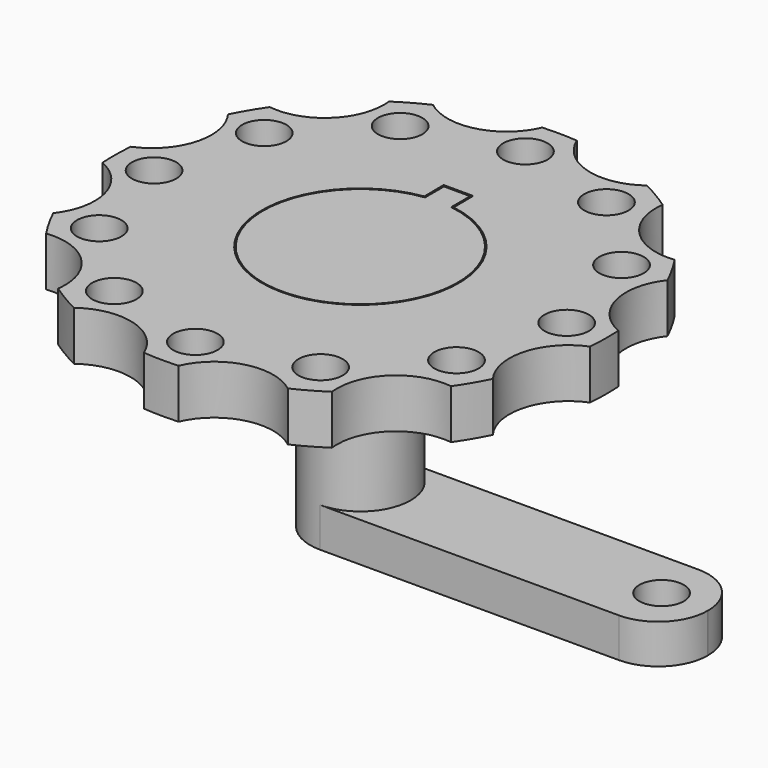
from build123d import *

# Parameters (mm, degrees)
F1_DEPTH      = 5
F1_DEPTH_BACK = 5
F2_DEPTH      = 70
F3_R          = 2.25
F4_DEPTH      = 5.001
F5_DEPTH      = 25
F6_R          = 5.1
F7_DEPTH      = 8
F8_DEPTH      = 25
F10_DEPTH     = 4
F11_R         = 2.25
F12_DEPTH     = 5
F13_R         = 5
F14_R         = 5


with BuildPart() as f1:
    # F0 (on Top) → F1 (new body, two sides)
    with BuildSketch(Plane.XY) as f1_sk:
        with BuildLine():
            ThreePointArc((24.9180826663, -2.0221662229), (24.9795122716, -1.0119123829), (25, 0))
            ThreePointArc((25, 0), (24.9884919428, 0.7584658374), (24.9539783659, 1.5162333974))
            ThreePointArc((24.9539783659, 1.5162333974), (21.5175783777, 5.5322921108), (22.5907757141, 10.7077940135))
            ThreePointArc((22.5907757141, 10.7077940135), (21.7763222672, 12.2797307998), (20.8526624916, 13.7900858231))
            ThreePointArc((20.8526624916, 13.7900858231), (15.8686234476, 15.5498946979), (14.2102886529, 20.5686094912))
            ThreePointArc((14.2102886529, 20.5686094912), (12.7189828845, 21.5227199579), (11.1638925427, 22.368895889))
            ThreePointArc((11.1638925427, 22.368895889), (5.9676836798, 21.4009155584), (2.0221662229, 24.9180826663))
            ThreePointArc((2.0221662229, 24.9180826663), (0.2536023093, 24.9987136843), (-1.5162333974, 24.9539783659))
            ThreePointArc((-1.5162333974, 24.9539783659), (-5.5322921108, 21.5175783777), (-10.7077940135, 22.5907757141))
            ThreePointArc((-10.7077940135, 22.5907757141), (-12.2797307998, 21.7763222672), (-13.7900858231, 20.8526624916))
            ThreePointArc((-13.7900858231, 20.8526624916), (-13.7594896566, 20.5039684404), (-13.749279351, 20.1540835788))
            ThreePointArc((-13.749279351, 20.1540835788), (-15.8069438022, 15.6310325708), (-20.5686094912, 14.2102886529))
            ThreePointArc((-20.5686094912, 14.2102886529), (-21.5227199579, 12.7189828845), (-22.368895889, 11.1638925427))
            ThreePointArc((-22.368895889, 11.1638925427), (-21.4852837197, 9.4675431669), (-21.1804194138, 7.5793086937))
            ThreePointArc((-21.1804194138, 7.5793086937), (-22.2017639485, 4.2307284337), (-24.9180826663, 2.0221662229))
            ThreePointArc((-24.9180826663, 2.0221662229), (-24.9987136843, 0.2536023093), (-24.9539783659, -1.5162333974))
            ThreePointArc((-24.9539783659, -1.5162333974), (-22.3162204368, -3.7284318092), (-21.3285880447, -7.026335835))
            ThreePointArc((-21.3285880447, -7.026335835), (-21.6528998052, -8.9722451361), (-22.5907757141, -10.7077940135))
            ThreePointArc((-22.5907757141, -10.7077940135), (-21.7763222672, -12.2797307998), (-20.8526624916, -13.7900858231))
            ThreePointArc((-20.8526624916, -13.7900858231), (-16.1660686263, -15.2664524819), (-14.1540835788, -19.749279351))
            ThreePointArc((-14.1540835788, -19.749279351), (-14.1681513391, -20.1599071901), (-14.2102886529, -20.5686094912))
            ThreePointArc((-14.2102886529, -20.5686094912), (-12.7189828845, -21.5227199579), (-11.1638925427, -22.368895889))
            ThreePointArc((-11.1638925427, -22.368895889), (-5.9676836798, -21.4009155584), (-2.0221662229, -24.9180826663))
            ThreePointArc((-2.0221662229, -24.9180826663), (-0.2536023093, -24.9987136843), (1.5162333974, -24.9539783659))
            ThreePointArc((1.5162333974, -24.9539783659), (5.5322921108, -21.5175783777), (10.7077940135, -22.5907757141))
            ThreePointArc((10.7077940135, -22.5907757141), (12.2797307998, -21.7763222672), (13.7900858231, -20.8526624916))
            ThreePointArc((13.7900858231, -20.8526624916), (15.5498946979, -15.8686234476), (20.5686094912, -14.2102886529))
            ThreePointArc((20.5686094912, -14.2102886529), (21.5227199579, -12.7189828845), (22.368895889, -11.1638925427))
            ThreePointArc((22.368895889, -11.1638925427), (21.4009155584, -5.9676836798), (24.9180826663, -2.0221662229))
        make_face()
        with BuildLine():
            ThreePointArc((1.5680404719, 9.8762973365), (-0.0687043009, -9.9997639832), (-1.4321868223, 9.8969106749))
            Line((-1.4321868223, 9.8969106749), (-1.4595227249, 12.3761442437))
            Line((-1.4595227249, 12.3761442437), (1.5404772751, 12.3761453859))
            Line((1.5404772751, 12.3761453859), (1.5680404719, 9.8762973365))
        make_face(mode=Mode.SUBTRACT)
    extrude(amount=F1_DEPTH)
    extrude(f1_sk.sketch, amount=-F1_DEPTH_BACK)

    # F0 (on Top) → F2 (cut)
    with BuildSketch(Plane.XY):
        with BuildLine():
            ThreePointArc((24.9180826663, -2.0221662229), (24.9795122716, -1.0119123829), (25, 0))
            ThreePointArc((25, 0), (24.9884919428, 0.7584658374), (24.9539783659, 1.5162333974))
            ThreePointArc((24.9539783659, 1.5162333974), (21.5175783777, 5.5322921108), (22.5907757141, 10.7077940135))
            ThreePointArc((22.5907757141, 10.7077940135), (21.7763222672, 12.2797307998), (20.8526624916, 13.7900858231))
            ThreePointArc((20.8526624916, 13.7900858231), (15.8686234476, 15.5498946979), (14.2102886529, 20.5686094912))
            ThreePointArc((14.2102886529, 20.5686094912), (12.7189828845, 21.5227199579), (11.1638925427, 22.368895889))
            ThreePointArc((11.1638925427, 22.368895889), (5.9676836798, 21.4009155584), (2.0221662229, 24.9180826663))
            ThreePointArc((2.0221662229, 24.9180826663), (0.2536023093, 24.9987136843), (-1.5162333974, 24.9539783659))
            ThreePointArc((-1.5162333974, 24.9539783659), (-5.5322921108, 21.5175783777), (-10.7077940135, 22.5907757141))
            ThreePointArc((-10.7077940135, 22.5907757141), (-12.2797307998, 21.7763222672), (-13.7900858231, 20.8526624916))
            ThreePointArc((-13.7900858231, 20.8526624916), (-13.7594896566, 20.5039684404), (-13.749279351, 20.1540835788))
            ThreePointArc((-13.749279351, 20.1540835788), (-15.8069438022, 15.6310325708), (-20.5686094912, 14.2102886529))
            ThreePointArc((-20.5686094912, 14.2102886529), (-21.5227199579, 12.7189828845), (-22.368895889, 11.1638925427))
            ThreePointArc((-22.368895889, 11.1638925427), (-21.4852837197, 9.4675431669), (-21.1804194138, 7.5793086937))
            ThreePointArc((-21.1804194138, 7.5793086937), (-22.2017639485, 4.2307284337), (-24.9180826663, 2.0221662229))
            ThreePointArc((-24.9180826663, 2.0221662229), (-24.9987136843, 0.2536023093), (-24.9539783659, -1.5162333974))
            ThreePointArc((-24.9539783659, -1.5162333974), (-22.3162204368, -3.7284318092), (-21.3285880447, -7.026335835))
            ThreePointArc((-21.3285880447, -7.026335835), (-21.6528998052, -8.9722451361), (-22.5907757141, -10.7077940135))
            ThreePointArc((-22.5907757141, -10.7077940135), (-21.7763222672, -12.2797307998), (-20.8526624916, -13.7900858231))
            ThreePointArc((-20.8526624916, -13.7900858231), (-16.1660686263, -15.2664524819), (-14.1540835788, -19.749279351))
            ThreePointArc((-14.1540835788, -19.749279351), (-14.1681513391, -20.1599071901), (-14.2102886529, -20.5686094912))
            ThreePointArc((-14.2102886529, -20.5686094912), (-12.7189828845, -21.5227199579), (-11.1638925427, -22.368895889))
            ThreePointArc((-11.1638925427, -22.368895889), (-5.9676836798, -21.4009155584), (-2.0221662229, -24.9180826663))
            ThreePointArc((-2.0221662229, -24.9180826663), (-0.2536023093, -24.9987136843), (1.5162333974, -24.9539783659))
            ThreePointArc((1.5162333974, -24.9539783659), (5.5322921108, -21.5175783777), (10.7077940135, -22.5907757141))
            ThreePointArc((10.7077940135, -22.5907757141), (12.2797307998, -21.7763222672), (13.7900858231, -20.8526624916))
            ThreePointArc((13.7900858231, -20.8526624916), (15.5498946979, -15.8686234476), (20.5686094912, -14.2102886529))
            ThreePointArc((20.5686094912, -14.2102886529), (21.5227199579, -12.7189828845), (22.368895889, -11.1638925427))
            ThreePointArc((22.368895889, -11.1638925427), (21.4009155584, -5.9676836798), (24.9180826663, -2.0221662229))
        make_face()
        with BuildLine():
            ThreePointArc((1.5680404719, 9.8762973365), (-0.0687043009, -9.9997639832), (-1.4321868223, 9.8969106749))
            Line((-1.4321868223, 9.8969106749), (-1.4595227249, 12.3761442437))
            Line((-1.4595227249, 12.3761442437), (1.5404772751, 12.3761453859))
            Line((1.5404772751, 12.3761453859), (1.5680404719, 9.8762973365))
        make_face(mode=Mode.SUBTRACT)
        with BuildLine():
            ThreePointArc((22.5907757141, 10.7077940135), (21.5175783777, 5.5322921108), (24.9539783659, 1.5162333974))
            ThreePointArc((24.9539783659, 1.5162333974), (24.2125402792, 6.2251821844), (22.5907757141, 10.7077940135))
        make_face()
        with BuildLine():
            ThreePointArc((22.5907757141, 10.7077940135), (24.2125402792, 6.2251821844), (24.9539783659, 1.5162333974))
            ThreePointArc((24.9539783659, 1.5162333974), (30.6264920705, 2.0139682271), (33.3285880447, 7.026335835))
            ThreePointArc((33.3285880447, 7.026335835), (29.2744973458, 12.7020240745), (22.5907757141, 10.7077940135))
        make_face()
        with BuildLine():
            ThreePointArc((33.1804194138, -7.5793086937), (30.5289996738, -2.6006532284), (24.9180826663, -2.0221662229))
            ThreePointArc((24.9180826663, -2.0221662229), (24.0812660641, -6.7151042247), (22.368895889, -11.1638925427))
            ThreePointArc((22.368895889, -11.1638925427), (29.068653887, -13.2744443878), (33.1804194138, -7.5793086937))
        make_face()
        with BuildLine():
            ThreePointArc((22.368895889, -11.1638925427), (24.0812660641, -6.7151042247), (24.9180826663, -2.0221662229))
            ThreePointArc((24.9180826663, -2.0221662229), (21.4009155584, -5.9676836798), (22.368895889, -11.1638925427))
        make_face()
        with BuildLine():
            ThreePointArc((14.2102886529, 20.5686094912), (15.8686234476, 15.5498946979), (20.8526624916, 13.7900858231))
            ThreePointArc((20.8526624916, 13.7900858231), (17.8560838797, 17.4974360545), (14.2102886529, 20.5686094912))
        make_face()
        with BuildLine():
            ThreePointArc((14.2102886529, 20.5686094912), (17.8560838797, 17.4974360545), (20.8526624916, 13.7900858231))
            ThreePointArc((20.8526624916, 13.7900858231), (24.6369104479, 15.7612643985), (26.1540835788, 19.749279351))
            ThreePointArc((26.1540835788, 19.749279351), (20.5647114179, 25.7352115907), (14.2102886529, 20.5686094912))
        make_face()
        with BuildLine():
            ThreePointArc((25.749279351, -20.1540835788), (24.272330359, -16.21174803), (20.5686094912, -14.2102886529))
            ThreePointArc((20.5686094912, -14.2102886529), (17.4974360545, -17.8560838797), (13.7900858231, -20.8526624916))
            ThreePointArc((13.7900858231, -20.8526624916), (20.0991642127, -26.1438732732), (25.749279351, -20.1540835788))
        make_face()
        with BuildLine():
            ThreePointArc((13.7900858231, -20.8526624916), (17.4974360545, -17.8560838797), (20.5686094912, -14.2102886529))
            ThreePointArc((20.5686094912, -14.2102886529), (15.5498946979, -15.8686234476), (13.7900858231, -20.8526624916))
        make_face()
        with BuildLine():
            ThreePointArc((2.0221662229, 24.9180826663), (5.9676836798, 21.4009155584), (11.1638925427, 22.368895889))
            ThreePointArc((11.1638925427, 22.368895889), (6.7151042247, 24.0812660641), (2.0221662229, 24.9180826663))
        make_face()
        with BuildLine():
            ThreePointArc((2.0221662229, 24.9180826663), (6.7151042247, 24.0812660641), (11.1638925427, 22.368895889))
            ThreePointArc((11.1638925427, 22.368895889), (12.9415611633, 24.4885337452), (13.5793086937, 27.1804194138))
            ThreePointArc((13.5793086937, 27.1804194138), (6.4266714622, 33.0686642637), (2.0221662229, 24.9180826663))
        make_face()
        with BuildLine():
            ThreePointArc((13.026335835, -27.3285880447), (12.4156191394, -24.6912360651), (10.7077940135, -22.5907757141))
            ThreePointArc((10.7077940135, -22.5907757141), (6.2251821844, -24.2125402792), (1.5162333974, -24.9539783659))
            ThreePointArc((1.5162333974, -24.9539783659), (5.81402701, -33.2048374704), (13.026335835, -27.3285880447))
        make_face()
        with BuildLine():
            ThreePointArc((1.5162333974, -24.9539783659), (6.2251821844, -24.2125402792), (10.7077940135, -22.5907757141))
            ThreePointArc((10.7077940135, -22.5907757141), (5.5322921108, -21.5175783777), (1.5162333974, -24.9539783659))
        make_face()
        with BuildLine():
            ThreePointArc((-10.7077940135, 22.5907757141), (-5.5322921108, 21.5175783777), (-1.5162333974, 24.9539783659))
            ThreePointArc((-1.5162333974, 24.9539783659), (-6.2251821844, 24.2125402792), (-10.7077940135, 22.5907757141))
        make_face()
        with BuildLine():
            ThreePointArc((-10.7077940135, 22.5907757141), (-6.2251821844, 24.2125402792), (-1.5162333974, 24.9539783659))
            ThreePointArc((-1.5162333974, 24.9539783659), (-1.1500864093, 26.1162792197), (-1.026335835, 27.3285880447))
            ThreePointArc((-1.026335835, 27.3285880447), (-9.6636878147, 32.7178713492), (-10.7077940135, 22.5907757141))
        make_face()
        with BuildLine():
            ThreePointArc((-1.5793086937, -27.1804194138), (-1.6910638438, -26.0277821823), (-2.0221662229, -24.9180826663))
            ThreePointArc((-2.0221662229, -24.9180826663), (-6.7151042247, -24.0812660641), (-11.1638925427, -22.368895889))
            ThreePointArc((-11.1638925427, -22.368895889), (-10.2711943623, -32.5426718833), (-1.5793086937, -27.1804194138))
        make_face()
        with BuildLine():
            ThreePointArc((-11.1638925427, -22.368895889), (-6.7151042247, -24.0812660641), (-2.0221662229, -24.9180826663))
            ThreePointArc((-2.0221662229, -24.9180826663), (-5.9676836798, -21.4009155584), (-11.1638925427, -22.368895889))
        make_face()
        with BuildLine():
            ThreePointArc((-13.749279351, 20.1540835788), (-13.7594896566, 20.5039684404), (-13.7900858231, 20.8526624916))
            ThreePointArc((-13.7900858231, 20.8526624916), (-17.4974360545, 17.8560838797), (-20.5686094912, 14.2102886529))
            ThreePointArc((-20.5686094912, 14.2102886529), (-15.8069438022, 15.6310325708), (-13.749279351, 20.1540835788))
        make_face()
        with BuildLine():
            ThreePointArc((-20.5686094912, 14.2102886529), (-17.4974360545, 17.8560838797), (-13.7900858231, 20.8526624916))
            ThreePointArc((-13.7900858231, 20.8526624916), (-23.9486640041, 24.4395437099), (-20.5686094912, 14.2102886529))
        make_face()
        with BuildLine():
            ThreePointArc((-20.8526624916, -13.7900858231), (-24.4395437099, -23.9486640041), (-14.2102886529, -20.5686094912))
            ThreePointArc((-14.2102886529, -20.5686094912), (-17.8560838797, -17.4974360545), (-20.8526624916, -13.7900858231))
        make_face()
        with BuildLine():
            ThreePointArc((-20.8526624916, -13.7900858231), (-17.8560838797, -17.4974360545), (-14.2102886529, -20.5686094912))
            ThreePointArc((-14.2102886529, -20.5686094912), (-14.1681513391, -20.1599071901), (-14.1540835788, -19.749279351))
            ThreePointArc((-14.1540835788, -19.749279351), (-16.1660686263, -15.2664524819), (-20.8526624916, -13.7900858231))
        make_face()
        with BuildLine():
            ThreePointArc((-21.1804194138, 7.5793086937), (-21.4852837197, 9.4675431669), (-22.368895889, 11.1638925427))
            ThreePointArc((-22.368895889, 11.1638925427), (-24.0812660641, 6.7151042247), (-24.9180826663, 2.0221662229))
            ThreePointArc((-24.9180826663, 2.0221662229), (-22.2017639485, 4.2307284337), (-21.1804194138, 7.5793086937))
        make_face()
        with BuildLine():
            ThreePointArc((-24.9180826663, 2.0221662229), (-24.0812660641, 6.7151042247), (-22.368895889, 11.1638925427))
            ThreePointArc((-22.368895889, 11.1638925427), (-32.9599232692, 9.1909337077), (-24.9180826663, 2.0221662229))
        make_face()
        with BuildLine():
            ThreePointArc((-24.9539783659, -1.5162333974), (-33.1395977117, -8.5203795593), (-22.5907757141, -10.7077940135))
            ThreePointArc((-22.5907757141, -10.7077940135), (-24.2125402792, -6.2251821844), (-24.9539783659, -1.5162333974))
        make_face()
        with BuildLine():
            ThreePointArc((-24.9539783659, -1.5162333974), (-24.2125402792, -6.2251821844), (-22.5907757141, -10.7077940135))
            ThreePointArc((-22.5907757141, -10.7077940135), (-21.6528998052, -8.9722451361), (-21.3285880447, -7.026335835))
            ThreePointArc((-21.3285880447, -7.026335835), (-22.3162204368, -3.7284318092), (-24.9539783659, -1.5162333974))
        make_face()
    extrude(amount=F2_DEPTH, mode=Mode.SUBTRACT)

    # F3 (on Top) → F4 (cut, through all)
    with BuildSketch(Plane.XY):
        with Locations((-20.9273770452, 0)):
            Circle(F3_R)
        with Locations((-18.1236401557, -10.4636885226)):
            Circle(F3_R)
        with Locations((-10.4636885226, -18.1236401557)):
            Circle(F3_R)
        with Locations((0, -20.9273770452)):
            Circle(F3_R)
        with Locations((10.4636885226, -18.1236401557)):
            Circle(F3_R)
        with Locations((18.1236401557, -10.4636885226)):
            Circle(F3_R)
        with Locations((20.9273770452, 0)):
            Circle(F3_R)
        with Locations((18.1236401557, 10.4636885226)):
            Circle(F3_R)
        with Locations((10.4636885226, 18.1236401557)):
            Circle(F3_R)
        with Locations((0, 20.9273770452)):
            Circle(F3_R)
        with Locations((-10.4636885226, 18.1236401557)):
            Circle(F3_R)
        with Locations((-18.1236401557, 10.4636885226)):
            Circle(F3_R)
    extrude(amount=-F4_DEPTH, mode=Mode.SUBTRACT)

    # F0 (on Top) → F5 (cut)
    with BuildSketch(Plane.XY):
        with BuildLine():
            ThreePointArc((-11.1638925427, -22.368895889), (-6.7151042247, -24.0812660641), (-2.0221662229, -24.9180826663))
            ThreePointArc((-2.0221662229, -24.9180826663), (-5.9676836798, -21.4009155584), (-11.1638925427, -22.368895889))
        make_face()
        with BuildLine():
            ThreePointArc((-20.5686094912, 14.2102886529), (-17.4974360545, 17.8560838797), (-13.7900858231, 20.8526624916))
            ThreePointArc((-13.7900858231, 20.8526624916), (-23.9486640041, 24.4395437099), (-20.5686094912, 14.2102886529))
        make_face()
        with BuildLine():
            ThreePointArc((-21.1804194138, 7.5793086937), (-21.4852837197, 9.4675431669), (-22.368895889, 11.1638925427))
            ThreePointArc((-22.368895889, 11.1638925427), (-24.0812660641, 6.7151042247), (-24.9180826663, 2.0221662229))
            ThreePointArc((-24.9180826663, 2.0221662229), (-22.2017639485, 4.2307284337), (-21.1804194138, 7.5793086937))
        make_face()
        with BuildLine():
            ThreePointArc((-24.9180826663, 2.0221662229), (-24.0812660641, 6.7151042247), (-22.368895889, 11.1638925427))
            ThreePointArc((-22.368895889, 11.1638925427), (-32.9599232692, 9.1909337077), (-24.9180826663, 2.0221662229))
        make_face()
        with BuildLine():
            ThreePointArc((-13.749279351, 20.1540835788), (-13.7594896566, 20.5039684404), (-13.7900858231, 20.8526624916))
            ThreePointArc((-13.7900858231, 20.8526624916), (-17.4974360545, 17.8560838797), (-20.5686094912, 14.2102886529))
            ThreePointArc((-20.5686094912, 14.2102886529), (-15.8069438022, 15.6310325708), (-13.749279351, 20.1540835788))
        make_face()
        with BuildLine():
            ThreePointArc((-10.7077940135, 22.5907757141), (-5.5322921108, 21.5175783777), (-1.5162333974, 24.9539783659))
            ThreePointArc((-1.5162333974, 24.9539783659), (-6.2251821844, 24.2125402792), (-10.7077940135, 22.5907757141))
        make_face()
        with BuildLine():
            ThreePointArc((-10.7077940135, 22.5907757141), (-6.2251821844, 24.2125402792), (-1.5162333974, 24.9539783659))
            ThreePointArc((-1.5162333974, 24.9539783659), (-1.1500864093, 26.1162792197), (-1.026335835, 27.3285880447))
            ThreePointArc((-1.026335835, 27.3285880447), (-9.6636878147, 32.7178713492), (-10.7077940135, 22.5907757141))
        make_face()
        with BuildLine():
            ThreePointArc((2.0221662229, 24.9180826663), (5.9676836798, 21.4009155584), (11.1638925427, 22.368895889))
            ThreePointArc((11.1638925427, 22.368895889), (6.7151042247, 24.0812660641), (2.0221662229, 24.9180826663))
        make_face()
        with BuildLine():
            ThreePointArc((2.0221662229, 24.9180826663), (6.7151042247, 24.0812660641), (11.1638925427, 22.368895889))
            ThreePointArc((11.1638925427, 22.368895889), (12.9415611633, 24.4885337452), (13.5793086937, 27.1804194138))
            ThreePointArc((13.5793086937, 27.1804194138), (6.4266714622, 33.0686642637), (2.0221662229, 24.9180826663))
        make_face()
        with BuildLine():
            ThreePointArc((14.2102886529, 20.5686094912), (15.8686234476, 15.5498946979), (20.8526624916, 13.7900858231))
            ThreePointArc((20.8526624916, 13.7900858231), (17.8560838797, 17.4974360545), (14.2102886529, 20.5686094912))
        make_face()
        with BuildLine():
            ThreePointArc((14.2102886529, 20.5686094912), (17.8560838797, 17.4974360545), (20.8526624916, 13.7900858231))
            ThreePointArc((20.8526624916, 13.7900858231), (24.6369104479, 15.7612643985), (26.1540835788, 19.749279351))
            ThreePointArc((26.1540835788, 19.749279351), (20.5647114179, 25.7352115907), (14.2102886529, 20.5686094912))
        make_face()
        with BuildLine():
            ThreePointArc((22.5907757141, 10.7077940135), (21.5175783777, 5.5322921108), (24.9539783659, 1.5162333974))
            ThreePointArc((24.9539783659, 1.5162333974), (24.2125402792, 6.2251821844), (22.5907757141, 10.7077940135))
        make_face()
        with BuildLine():
            ThreePointArc((22.5907757141, 10.7077940135), (24.2125402792, 6.2251821844), (24.9539783659, 1.5162333974))
            ThreePointArc((24.9539783659, 1.5162333974), (30.6264920705, 2.0139682271), (33.3285880447, 7.026335835))
            ThreePointArc((33.3285880447, 7.026335835), (29.2744973458, 12.7020240745), (22.5907757141, 10.7077940135))
        make_face()
        with BuildLine():
            ThreePointArc((33.1804194138, -7.5793086937), (30.5289996738, -2.6006532284), (24.9180826663, -2.0221662229))
            ThreePointArc((24.9180826663, -2.0221662229), (24.0812660641, -6.7151042247), (22.368895889, -11.1638925427))
            ThreePointArc((22.368895889, -11.1638925427), (29.068653887, -13.2744443878), (33.1804194138, -7.5793086937))
        make_face()
        with BuildLine():
            ThreePointArc((22.368895889, -11.1638925427), (24.0812660641, -6.7151042247), (24.9180826663, -2.0221662229))
            ThreePointArc((24.9180826663, -2.0221662229), (21.4009155584, -5.9676836798), (22.368895889, -11.1638925427))
        make_face()
        with BuildLine():
            ThreePointArc((13.7900858231, -20.8526624916), (17.4974360545, -17.8560838797), (20.5686094912, -14.2102886529))
            ThreePointArc((20.5686094912, -14.2102886529), (15.5498946979, -15.8686234476), (13.7900858231, -20.8526624916))
        make_face()
        with BuildLine():
            ThreePointArc((25.749279351, -20.1540835788), (24.272330359, -16.21174803), (20.5686094912, -14.2102886529))
            ThreePointArc((20.5686094912, -14.2102886529), (17.4974360545, -17.8560838797), (13.7900858231, -20.8526624916))
            ThreePointArc((13.7900858231, -20.8526624916), (20.0991642127, -26.1438732732), (25.749279351, -20.1540835788))
        make_face()
        with BuildLine():
            ThreePointArc((1.5162333974, -24.9539783659), (6.2251821844, -24.2125402792), (10.7077940135, -22.5907757141))
            ThreePointArc((10.7077940135, -22.5907757141), (5.5322921108, -21.5175783777), (1.5162333974, -24.9539783659))
        make_face()
        with BuildLine():
            ThreePointArc((13.026335835, -27.3285880447), (12.4156191394, -24.6912360651), (10.7077940135, -22.5907757141))
            ThreePointArc((10.7077940135, -22.5907757141), (6.2251821844, -24.2125402792), (1.5162333974, -24.9539783659))
            ThreePointArc((1.5162333974, -24.9539783659), (5.81402701, -33.2048374704), (13.026335835, -27.3285880447))
        make_face()
        with BuildLine():
            ThreePointArc((-1.5793086937, -27.1804194138), (-1.6910638438, -26.0277821823), (-2.0221662229, -24.9180826663))
            ThreePointArc((-2.0221662229, -24.9180826663), (-6.7151042247, -24.0812660641), (-11.1638925427, -22.368895889))
            ThreePointArc((-11.1638925427, -22.368895889), (-10.2711943623, -32.5426718833), (-1.5793086937, -27.1804194138))
        make_face()
        with BuildLine():
            ThreePointArc((-20.8526624916, -13.7900858231), (-24.4395437099, -23.9486640041), (-14.2102886529, -20.5686094912))
            ThreePointArc((-14.2102886529, -20.5686094912), (-17.8560838797, -17.4974360545), (-20.8526624916, -13.7900858231))
        make_face()
        with BuildLine():
            ThreePointArc((-20.8526624916, -13.7900858231), (-17.8560838797, -17.4974360545), (-14.2102886529, -20.5686094912))
            ThreePointArc((-14.2102886529, -20.5686094912), (-14.1681513391, -20.1599071901), (-14.1540835788, -19.749279351))
            ThreePointArc((-14.1540835788, -19.749279351), (-16.1660686263, -15.2664524819), (-20.8526624916, -13.7900858231))
        make_face()
        with BuildLine():
            ThreePointArc((-24.9539783659, -1.5162333974), (-33.1395977117, -8.5203795593), (-22.5907757141, -10.7077940135))
            ThreePointArc((-22.5907757141, -10.7077940135), (-24.2125402792, -6.2251821844), (-24.9539783659, -1.5162333974))
        make_face()
        with BuildLine():
            ThreePointArc((-24.9539783659, -1.5162333974), (-24.2125402792, -6.2251821844), (-22.5907757141, -10.7077940135))
            ThreePointArc((-22.5907757141, -10.7077940135), (-21.6528998052, -8.9722451361), (-21.3285880447, -7.026335835))
            ThreePointArc((-21.3285880447, -7.026335835), (-22.3162204368, -3.7284318092), (-24.9539783659, -1.5162333974))
        make_face()
    extrude(amount=-F5_DEPTH, mode=Mode.SUBTRACT)


with BuildPart() as f7:
    # F6 (on Top) → F7 (new body)
    with BuildSketch(Plane.XY):
        with BuildLine():
            Line((-1.2714395145, 12.188446708), (-1.2714395145, 9.7928068786))
            ThreePointArc((-1.2714395145, 9.7928068786), (-0.0565146646, -9.8748382818), (1.3834429386, 9.7776127268))
            Line((1.3834429386, 9.7776127268), (1.3834429386, 12.188446708))
            Line((1.3834429386, 12.188446708), (-1.2714395145, 12.188446708))
        make_face()
        Circle(F6_R, mode=Mode.SUBTRACT)
    extrude(amount=-F7_DEPTH)

    # F6 (on Top) → F8 (join)
    with BuildSketch(Plane.XY):
        Circle(F6_R)
    extrude(amount=-F8_DEPTH)

    # F9 (on face) → F10 (join)
    with BuildSketch(Plane(origin=(0, 0, -25), x_dir=(1, 0, 0), z_dir=(0, 0, -1))):
        with BuildLine():
            Line((35.3059694171, 5.1), (0, 5.1))
            ThreePointArc((0, 5.1), (3.6062445841, 3.6062445841), (5.1, 0))
            ThreePointArc((5.1, 0), (3.9897251172, -3.1768055479), (1.1423162787, -4.9704238772))
            Line((1.1423162787, -4.9704238772), (35.3059694171, -4.9704238772))
            Line((35.3059694171, -4.9704238772), (35.3059694171, 5.1))
        make_face()
    extrude(amount=-F10_DEPTH)

    # F11 (on face) → F12 (cut)
    with BuildSketch(Plane(origin=(0, 0, -25), x_dir=(1, 0, 0), z_dir=(0, 0, -1))):
        with Locations((30.5578056723, 0)):
            Circle(F11_R)
    extrude(amount=-F12_DEPTH, mode=Mode.SUBTRACT)

    # F13
    f13_edges = [f7.edges().sort_by_distance(p)[0] for p in [
        (35.305969, 4.970424, -23),
    ]]
    fillet(f13_edges, radius=F13_R)

    # F14
    f14_edges = [f7.edges().sort_by_distance(p)[0] for p in [
        (35.305969, -5.1, -23),
    ]]
    fillet(f14_edges, radius=F14_R)


solid = Compound([f1.part, f7.part])
